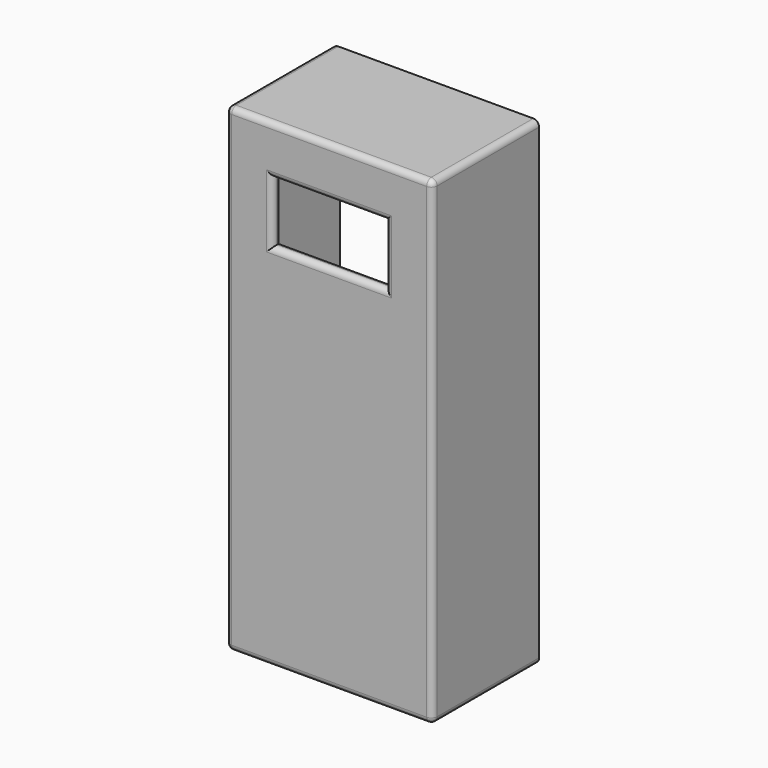
from build123d import *

# Parameters (mm, degrees)
F0_W     = 107
F0_H     = 248
F0_W_2   = 99
F0_H_2   = 240
F1_DEPTH = 65
F2_W     = 107
F2_H     = 248
F2_W_2   = 99
F2_H_2   = 240
F3_DEPTH = 4
F4_W     = 58.7
F4_H     = 31.5
F5_DEPTH = 25
F6_R     = 3


with BuildPart() as f1:
    # F0 (on Front) → F1 (new body)
    with BuildSketch(Plane.XZ):
        with Locations((49.5, 120)):
            Rectangle(F0_W, F0_H)
        with Locations((49.5, 120)):
            Rectangle(F0_W_2, F0_H_2, mode=Mode.SUBTRACT)
    extrude(amount=F1_DEPTH)

    # F2 (on face) → F3 (join)
    with BuildSketch(Plane.XZ.offset(65)):
        with Locations((49.5, 120)):
            Rectangle(F2_W, F2_H)
        with Locations((49.5, 120)):
            Rectangle(F2_W_2, F2_H_2, mode=Mode.SUBTRACT)
        with Locations((49.5, 120)):
            Rectangle(F2_W_2, F2_H_2)
    extrude(amount=F3_DEPTH)

    # F4 (on face) → F5 (cut)
    with BuildSketch(Plane.XZ.offset(69)):
        with Locations((49.35, 202.9458682446)):
            Rectangle(F4_W, F4_H)
    extrude(amount=-F5_DEPTH, mode=Mode.SUBTRACT)

    # F6
    f6_edges = [f1.edges().sort_by_distance(p)[0] for p in [
        (-4, -34.5, 244),
        (103, -34.5, 244),
        (-4, -34.5, -4),
        (103, -34.5, -4),
        (49.5, -69, 244),
        (103, -69, 120),
        (-4, -69, 120),
        (49.5, -69, -4),
        (49.35, -69, 218.695868),
        (20, -69, 202.945868),
        (49.35, -69, 187.195868),
        (78.7, -69, 202.945868),
    ]]
    fillet(f6_edges, radius=F6_R)


solid = f1.part
